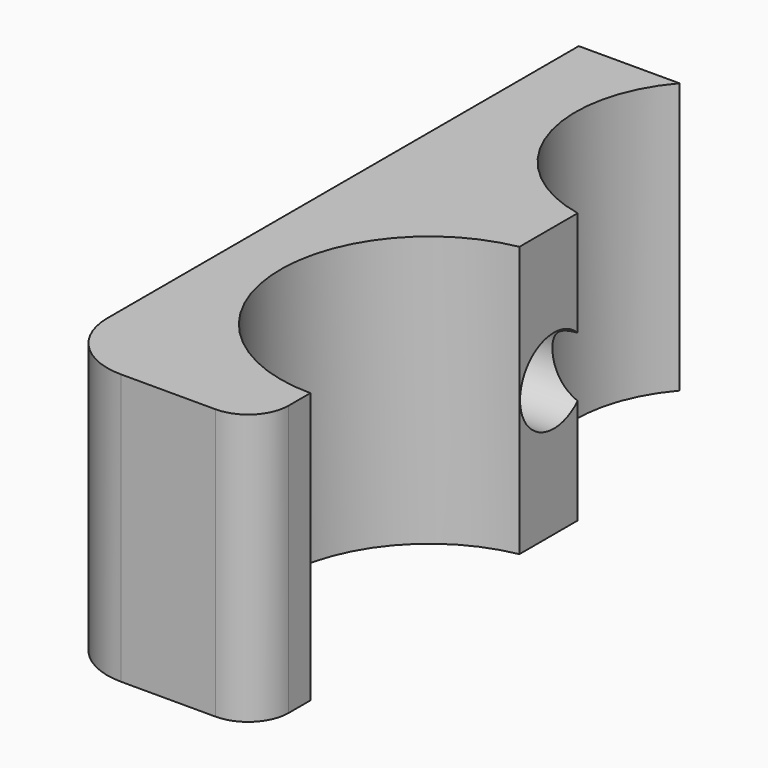
from build123d import *

# Parameters (mm, degrees)
F1_DEPTH  = 20
F2_DEPTH  = 20
F3_DEPTH  = 1
F4_DEPTH  = 2
F5_R      = 5
F6_R      = 3.125
F7_DEPTH  = 3
F9_DEPTH  = 20
F10_DEPTH = 2
F11_DEPTH = 0.2030410289
F12_DEPTH = 0.1843461736
F13_R     = 3
F14_DEPTH = 13


with BuildPart() as f1:
    # F0 (on Top) → F1 (new body)
    with BuildSketch(Plane.XY):
        with BuildLine():
            Line((-15, -22.5), (0, -22.5))
            Line((0, -22.5), (0, -20))
            ThreePointArc((0, -20), (-10, -10), (0, 0))
            Line((0, 0), (0, 6))
            Line((0, 6), (-15, 6))
            Line((-15, 6), (-15, -22.5))
        make_face()
    extrude(amount=F1_DEPTH)

    # F0 (on Top) → F2 (join)
    with BuildSketch(Plane.XY):
        with BuildLine():
            ThreePointArc((0, -47), (-11, -36), (0, -25))
            Line((0, -25), (0, -22.5))
            Line((0, -22.5), (-15, -22.5))
            Line((-15, -22.5), (-15, -52))
            Line((-15, -52), (0, -52))
            Line((0, -52), (0, -47))
        make_face()
    extrude(amount=F2_DEPTH)

    # F3 (cut): a face of the model
    f3_faces = [f1.faces().sort_by_distance(p)[0] for p in [
        (0, 3, 10),
    ]]
    extrude(f3_faces, amount=-F3_DEPTH, mode=Mode.SUBTRACT)

    # F4 (cut): a face of the model
    f4_faces = [f1.faces().sort_by_distance(p)[0] for p in [
        (-0.5, 0, 10),
    ]]
    extrude(f4_faces, amount=-F4_DEPTH, mode=Mode.SUBTRACT)

    # F5
    f5_edges = [f1.edges().sort_by_distance(p)[0] for p in [
        (-15, -52, 10),
    ]]
    fillet(f5_edges, radius=F5_R)

    # F6 (on face) → F7 (cut)
    with BuildSketch(Plane(origin=(-15, 0, 0), x_dir=(0, -1, 0), z_dir=(-1, 0, 0))):
        Polygon((16.1327298143, 13.3499298867), (16.1760774277, 6.6500701133), (22, 3.3376803609), (27.7805749589, 6.725150382), (27.7372273456, 13.4250101555), (21.9133047732, 16.7373999079), align=None)
        with Locations((22, 10)):
            Circle(F6_R, mode=Mode.SUBTRACT)
        Polygon((16.1327298143, 13.3499298867), (16.1760774277, 6.6500701133), (22, 3.3376803609), (27.7805749589, 6.725150382), (27.7372273456, 13.4250101555), (21.9133047732, 16.7373999079), align=None)
        with Locations((22, 10)):
            Circle(F6_R, mode=Mode.SUBTRACT)
    extrude(amount=-F7_DEPTH, mode=Mode.SUBTRACT)

    # F8 (on face) → F9 (cut, through all)
    with BuildSketch(Plane.XY.offset(20)):
        with BuildLine():
            Line((-15, 6), (-15, -3.4501256289))
            Line((-15, -3.4501256289), (-7.5563976684, -3.4501256289))
            ThreePointArc((-7.5563976684, -3.4501256289), (-4.6035839587, -1.1226684902), (-1, -0.0501256289))
            Line((-1, -0.0501256289), (-1, 6))
            Line((-1, 6), (-15, 6))
        make_face()
    extrude(amount=-F9_DEPTH, mode=Mode.SUBTRACT)

    # F10 (cut): a face of the model
    f10_faces = [f1.faces().sort_by_distance(p)[0] for p in [
        (0, -22.5, 10),
    ]]
    extrude(f10_faces, amount=-F10_DEPTH, mode=Mode.SUBTRACT)

    # F11 (cut, through all): a face of the model
    f11_faces = [f1.faces().sort_by_distance(p)[0] for p in [
        (-1, -20, 10),
    ]]
    extrude(f11_faces, amount=-F11_DEPTH, mode=Mode.SUBTRACT)

    # F12 (cut, through all): a face of the model
    f12_faces = [f1.faces().sort_by_distance(p)[0] for p in [
        (-1, -25, 10),
    ]]
    extrude(f12_faces, amount=-F12_DEPTH, mode=Mode.SUBTRACT)

    # F13
    f13_edges = [f1.edges().sort_by_distance(p)[0] for p in [
        (0, -52, 10),
    ]]
    fillet(f13_edges, radius=F13_R)

    # F14 (cut, through all): a face of the model
    f14_faces = [f1.faces().sort_by_distance(p)[0] for p in [
        (-15, -22, 10),
    ]]
    extrude(f14_faces, amount=-F14_DEPTH, mode=Mode.SUBTRACT)


solid = f1.part
